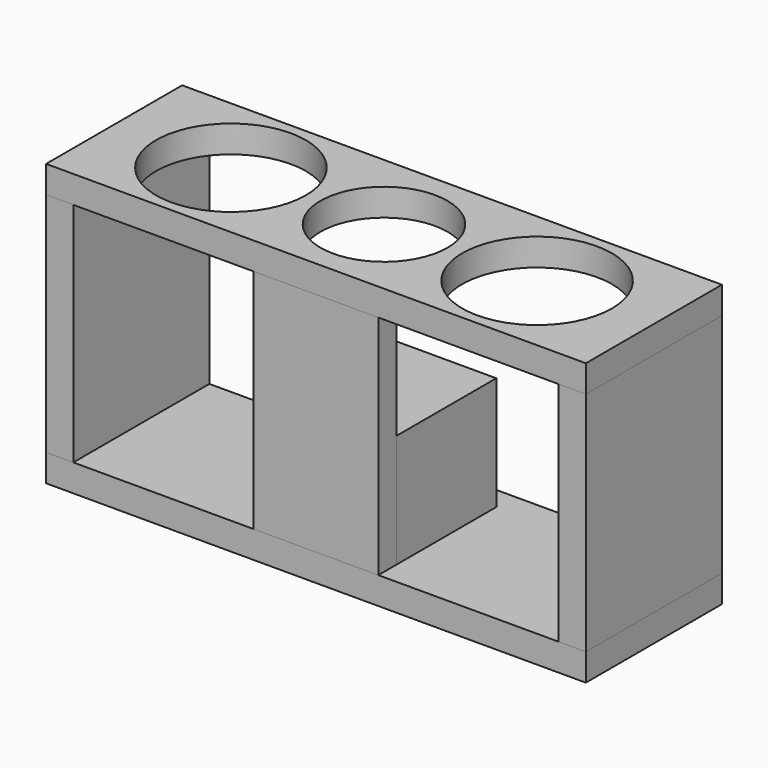
from build123d import *

# Parameters (mm, degrees)
F0_W      = 238
F0_H      = 75
F1_DEPTH  = 12
F3_W      = 238
F3_H      = 75
F3_R      = 33
F3_R_2    = 28
F4_DEPTH  = 12
F5_W      = 12
F5_H      = 75
F6_DEPTH  = 100
F7_W      = 55
F7_H      = 55
F8_DEPTH  = 50
F9_W      = 55
F9_H      = 100
F10_DEPTH = 10


with BuildPart() as f1:
    # F0 (on Top) → F1 (new body)
    with BuildSketch(Plane.XY):
        Rectangle(F0_W, F0_H)
    extrude(amount=F1_DEPTH)


with BuildPart() as f4:
    # F3 (on offset) → F4 (new body)
    with BuildSketch(Plane.XY.offset(112)):
        Rectangle(F3_W, F3_H)
        with Locations((-67.5, 0)):
            Circle(F3_R, mode=Mode.SUBTRACT)
        Circle(F3_R_2, mode=Mode.SUBTRACT)
        with Locations((67.5, 0)):
            Circle(F3_R, mode=Mode.SUBTRACT)
    extrude(amount=F4_DEPTH)


with BuildPart() as f6:
    # F5 (on face) → F6 (new body, through all)
    with BuildSketch(Plane.XY.offset(12)):
        with Locations((-113, 0)):
            Rectangle(F5_W, F5_H)
        with Locations((113, 0)):
            Rectangle(F5_W, F5_H)
    extrude(amount=F6_DEPTH)


with BuildPart() as f8:
    # F7 (on face) → F8 (new body)
    with BuildSketch(Plane.XY.offset(12)):
        Rectangle(F7_W, F7_H)
    extrude(amount=F8_DEPTH)


with BuildPart() as f10:
    # F9 (on face) → F10 (new body)
    with BuildSketch(Plane.XZ.offset(27.5)):
        with Locations((0, 62)):
            Rectangle(F9_W, F9_H)
    extrude(amount=F10_DEPTH)


solid = Compound([f1.part, f4.part, f6.part, f8.part, f10.part])
